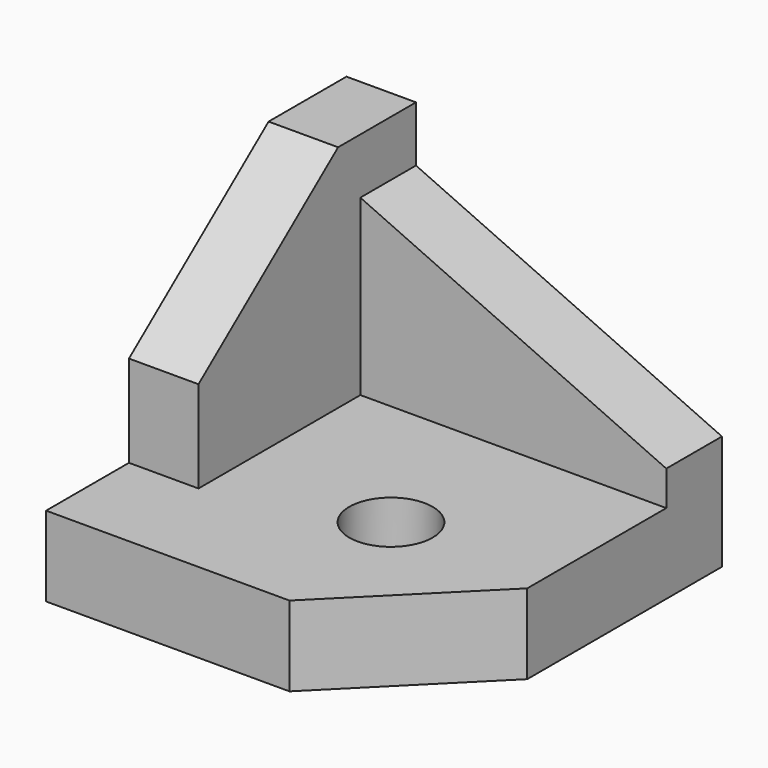
from build123d import *

# Parameters (mm, degrees)
PAD001_DEPTH = 10
SKETCH_R     = 6
PAD_DEPTH    = 11.5
PAD002_DEPTH = 10


with BuildPart() as lateral_i:
    # Sketch001 → Pad001 (new body)
    with BuildSketch(Plane.YZ.offset(-27)):
        Polygon((27, 0), (27, 44.5), (13, 44.5), (-12.1, 24.7), (-12.1, 0), align=None)
    extrude(amount=PAD001_DEPTH)


with BuildPart() as base:
    # Sketch → Pad (new body)
    with BuildSketch(Plane.XY):
        Polygon((-27, 27), (27, 27), (27, -8), (8, -27), (-27, -27), align=None)
        with Locations((5, -5)):
            Circle(SKETCH_R, mode=Mode.SUBTRACT)
    extrude(amount=PAD_DEPTH)


with BuildPart() as pieza_laterales:
    # Sketch002 → Pad002 (new body)
    with BuildSketch(Plane(origin=(5, 27, 0), x_dir=(1, 0, 0), z_dir=(0, -1, 0))):
        Polygon((22, 11.5), (22, 16.5), (-22, 36.5), (-22, 11.5), align=None)
    extrude(amount=PAD002_DEPTH)

    # Fusion: union Lateral-I, Base
    add(lateral_i.part)
    add(base.part)


solid = pieza_laterales.part
